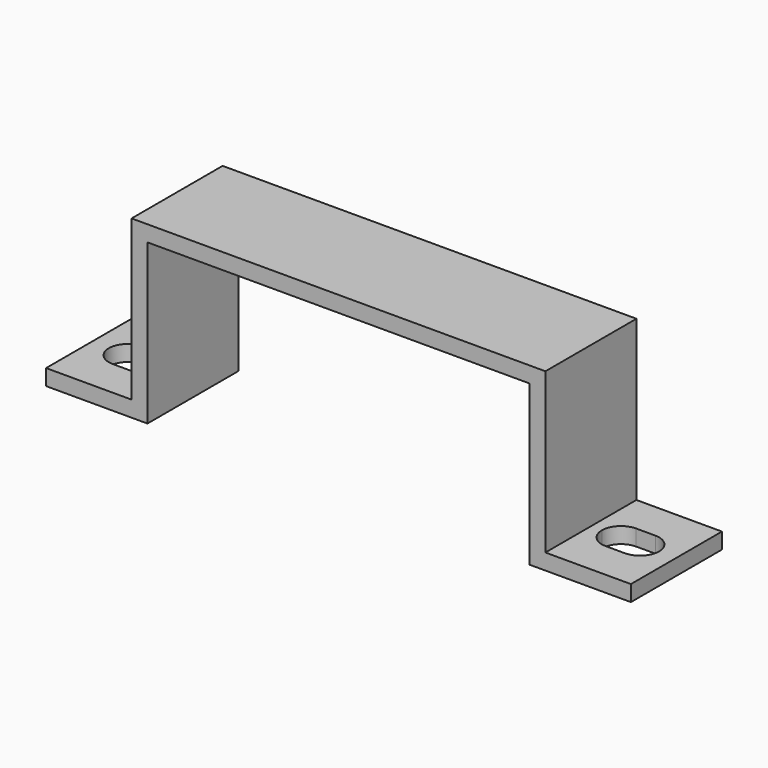
from build123d import *

# Parameters (mm, degrees)
F0_W     = 6.725
F0_H     = 1.25
F0_W_2   = 1.25
F1_DEPTH = 8.95
F3_DEPTH = 25


with BuildPart() as f1:
    # F0 (on Front) → F1 (new body)
    with BuildSketch(Plane.XZ):
        with Locations((-19.6375, 0.625)):
            Rectangle(F0_W, F0_H)
        with Locations((-15.65, 0.625)):
            Rectangle(F0_W_2, F0_H)
        Polygon((-16.275, 13.8), (-16.275, 1.25), (-15.025, 1.25), (-15.025, 12.55), (15.025, 12.55), (15.025, 1.25), (16.275, 1.25), (16.275, 13.8), align=None)
        with Locations((15.65, 0.625)):
            Rectangle(F0_W_2, F0_H)
        with Locations((19.6375, 0.625)):
            Rectangle(F0_W, F0_H)
    extrude(amount=F1_DEPTH)

    # F2 (on face) → F3 (cut)
    with BuildSketch(Plane.XY.offset(1.25)):
        with BuildLine():
            ThreePointArc((-19.39, -3.1759618943), (-19.0282285677, -3.0261112606), (-18.64, -2.975))
            Line((-18.64, -2.975), (-20.14, -2.975))
            ThreePointArc((-20.14, -2.975), (-19.7517714323, -3.0261112606), (-19.39, -3.1759618943))
        make_face()
        with BuildLine():
            ThreePointArc((-19.39, -5.7740381057), (-20.14, -4.475), (-19.39, -3.1759618943))
            ThreePointArc((-19.39, -3.1759618943), (-19.7517714323, -3.0261112606), (-20.14, -2.975))
            ThreePointArc((-20.14, -2.975), (-21.64, -4.475), (-20.14, -5.975))
            ThreePointArc((-20.14, -5.975), (-19.7517714323, -5.9238887394), (-19.39, -5.7740381057))
        make_face()
        with BuildLine():
            ThreePointArc((-19.39, -5.7740381057), (-18.8409618943, -5.225), (-18.64, -4.475))
            ThreePointArc((-18.64, -4.475), (-18.8409618943, -3.725), (-19.39, -3.1759618943))
            ThreePointArc((-19.39, -3.1759618943), (-20.14, -4.475), (-19.39, -5.7740381057))
        make_face()
        with BuildLine():
            Line((-18.64, -4.475), (-17.14, -4.475))
            ThreePointArc((-17.14, -4.475), (-17.5793398282, -3.4143398282), (-18.64, -2.975))
            ThreePointArc((-18.64, -2.975), (-19.0282285677, -3.0261112606), (-19.39, -3.1759618943))
            ThreePointArc((-19.39, -3.1759618943), (-18.8409618943, -3.725), (-18.64, -4.475))
        make_face()
        with BuildLine():
            ThreePointArc((-18.64, -5.975), (-17.5793398282, -5.5356601718), (-17.14, -4.475))
            Line((-17.14, -4.475), (-18.64, -4.475))
            ThreePointArc((-18.64, -4.475), (-18.8409618943, -5.225), (-19.39, -5.7740381057))
            ThreePointArc((-19.39, -5.7740381057), (-19.0282285677, -5.9238887394), (-18.64, -5.975))
        make_face()
        with BuildLine():
            Line((-20.14, -5.975), (-18.64, -5.975))
            ThreePointArc((-18.64, -5.975), (-19.0282285677, -5.9238887394), (-19.39, -5.7740381057))
            ThreePointArc((-19.39, -5.7740381057), (-19.7517714323, -5.9238887394), (-20.14, -5.975))
        make_face()
        with BuildLine():
            Line((20.14, -2.975), (18.64, -2.975))
            ThreePointArc((18.64, -2.975), (19.0282285677, -3.0261112606), (19.39, -3.1759618943))
            ThreePointArc((19.39, -3.1759618943), (19.7517714323, -3.0261112606), (20.14, -2.975))
        make_face()
        with BuildLine():
            ThreePointArc((18.64, -2.975), (17.5793398282, -3.4143398282), (17.14, -4.475))
            Line((17.14, -4.475), (18.64, -4.475))
            ThreePointArc((18.64, -4.475), (18.8409618943, -3.725), (19.39, -3.1759618943))
            ThreePointArc((19.39, -3.1759618943), (19.0282285677, -3.0261112606), (18.64, -2.975))
        make_face()
        with BuildLine():
            ThreePointArc((19.39, -3.1759618943), (18.8409618943, -3.725), (18.64, -4.475))
            ThreePointArc((18.64, -4.475), (18.8409618943, -5.225), (19.39, -5.7740381057))
            ThreePointArc((19.39, -5.7740381057), (19.9390381057, -5.225), (20.14, -4.475))
            ThreePointArc((20.14, -4.475), (19.9390381057, -3.725), (19.39, -3.1759618943))
        make_face()
        with BuildLine():
            ThreePointArc((20.14, -2.975), (19.7517714323, -3.0261112606), (19.39, -3.1759618943))
            ThreePointArc((19.39, -3.1759618943), (19.9390381057, -3.725), (20.14, -4.475))
            ThreePointArc((20.14, -4.475), (19.9390381057, -5.225), (19.39, -5.7740381057))
            ThreePointArc((19.39, -5.7740381057), (19.7517714323, -5.9238887394), (20.14, -5.975))
            ThreePointArc((20.14, -5.975), (21.2006601718, -5.5356601718), (21.64, -4.475))
            ThreePointArc((21.64, -4.475), (21.2006601718, -3.4143398282), (20.14, -2.975))
        make_face()
        with BuildLine():
            ThreePointArc((19.39, -5.7740381057), (19.0282285677, -5.9238887394), (18.64, -5.975))
            Line((18.64, -5.975), (20.14, -5.975))
            ThreePointArc((20.14, -5.975), (19.7517714323, -5.9238887394), (19.39, -5.7740381057))
        make_face()
        with BuildLine():
            Line((18.64, -4.475), (17.14, -4.475))
            ThreePointArc((17.14, -4.475), (17.5793398282, -5.5356601718), (18.64, -5.975))
            ThreePointArc((18.64, -5.975), (19.0282285677, -5.9238887394), (19.39, -5.7740381057))
            ThreePointArc((19.39, -5.7740381057), (18.8409618943, -5.225), (18.64, -4.475))
        make_face()
    extrude(amount=-F3_DEPTH, mode=Mode.SUBTRACT)


solid = f1.part
